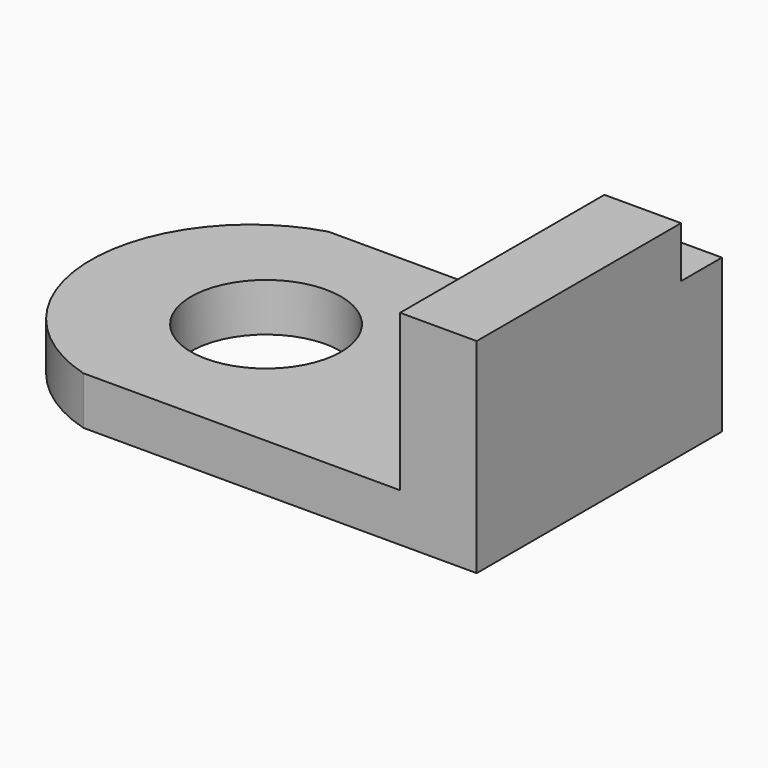
from build123d import *

# Parameters (mm, degrees)
F0_W     = 254
F0_H     = 152.4
F1_DEPTH = 101.6
F2_W     = 152.4
F2_H     = 77.6838691145
F3_DEPTH = 215.9
F4_W     = 25.4
F4_H     = 25.4
F5_DEPTH = 50.8
F8_DEPTH = 25.4
F6_R     = 37.2654170077
F9_DEPTH = 25.4


with BuildPart() as f1:
    # F0 (on Top) → F1 (new body)
    with BuildSketch(Plane.XY):
        with Locations((111.9955861747, 48.1005767256)):
            Rectangle(F0_W, F0_H)
    extrude(amount=F1_DEPTH)

    # F2 (on face) → F3 (cut)
    with BuildSketch(Plane(origin=(-15.0044138253, 0, 0), x_dir=(0, -1, 0), z_dir=(-1, 0, 0))):
        with Locations((-48.1005767256, 62.7580654427)):
            Rectangle(F2_W, F2_H)
    extrude(amount=-F3_DEPTH, mode=Mode.SUBTRACT)

    # F4 (on face) → F5 (cut)
    with BuildSketch(Plane(origin=(200.8955861747, 0, 0), x_dir=(0, -1, 0), z_dir=(-1, 0, 0))):
        with Locations((-111.6005767256, 88.9)):
            Rectangle(F4_W, F4_H)
    extrude(amount=-F5_DEPTH, mode=Mode.SUBTRACT)

    # F7 (on face) → F8 (cut)
    with BuildSketch(Plane.XY.offset(23.9161308855)):
        with BuildLine():
            ThreePointArc((43.4155861747, -28.0994232744), (-13.8048519796, 48.1005767256), (43.4155861747, 124.3005767256))
            Line((43.4155861747, 124.3005767256), (-15.0044138253, 124.3005767256))
            Line((-15.0044138253, 124.3005767256), (-15.0044138253, -28.0994232744))
            Line((-15.0044138253, -28.0994232744), (43.4155861747, -28.0994232744))
        make_face()
    extrude(amount=-F8_DEPTH, mode=Mode.SUBTRACT)

    # F6 (on face) → F9 (cut)
    with BuildSketch(Plane.XY.offset(23.9161308855)):
        with Locations((73.0605365211, 48.3872703384)):
            Circle(F6_R)
    extrude(amount=-F9_DEPTH, mode=Mode.SUBTRACT)


solid = f1.part
